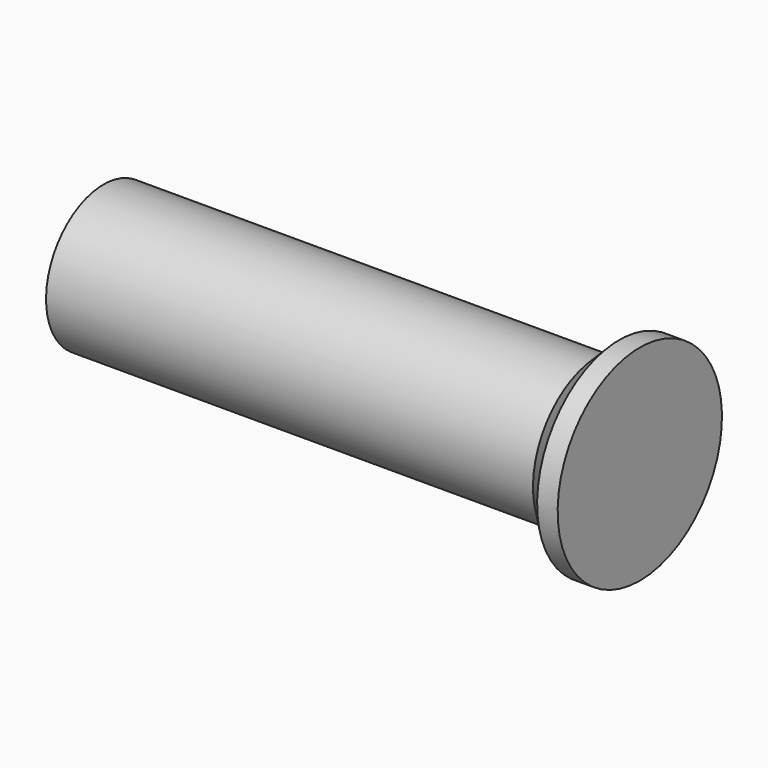
from build123d import *

# Parameters (mm, degrees)
F0_W     = 5
F0_H     = 10
F0_W_2   = 20.5440539549
F2_SIZE  = 5
F3_DEPTH = 100


with BuildPart() as f1:
    # F0 (on Front) → F1 (revolve)
    with BuildSketch(Plane.XZ):
        Polygon((12.7720269775, 5), (12.7720269775, -5), (7.7720269775, -5), (7.7720269775, -12.5), (17.7720269775, -12.5), (17.7720269775, 12.5), (7.7720269775, 12.5), (7.7720269775, 5), align=None)
        with Locations((10.2720269775, 0)):
            Rectangle(F0_W, F0_H)
        with Locations((-2.5, 0)):
            Rectangle(F0_W_2, F0_H)
    revolve(axis=Axis((12.7720269775, 0, 12.5), (-1, 0, 0)))

    # F2
    f2_edges = [f1.edges().sort_by_distance(p)[0] for p in [
        (7.772027, 0, 37.5),
    ]]
    chamfer(f2_edges, length=F2_SIZE)

    # F3 (add): a face of the model
    f3_faces = [f1.faces().sort_by_distance(p)[0] for p in [
        (-12.7720269775, 0, 20.4949747468),
    ]]
    extrude(f3_faces, amount=F3_DEPTH)


solid = f1.part
